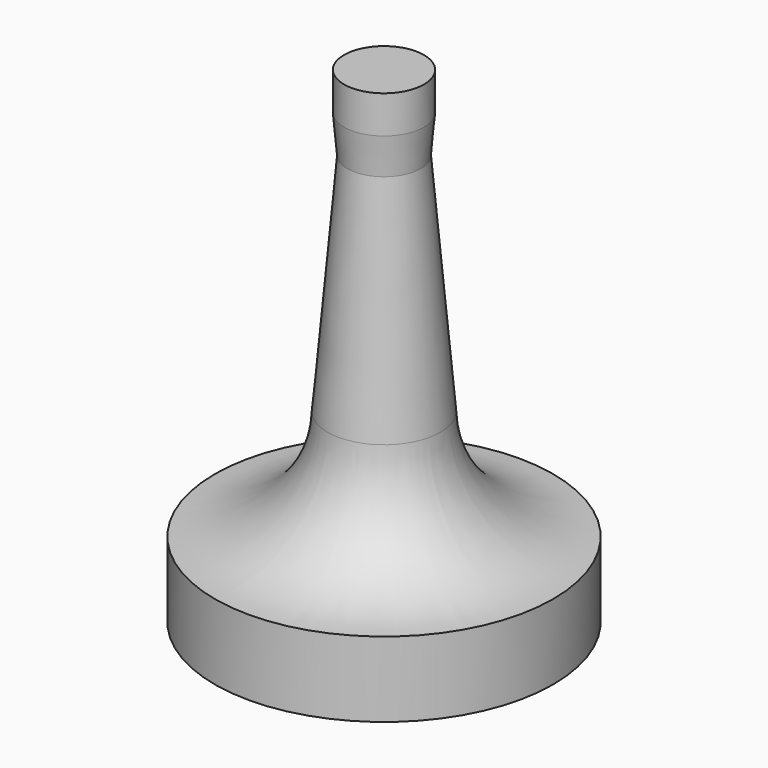
from build123d import *

# Parameters (mm, degrees)
F1_FACE_R = 19.05
F2_DEPTH  = 76.2
F2_TAPER  = 5
F2_FACE_R = 12.3833638393
F3_DEPTH  = 12.7
F3_TAPER  = -5
F4_DEPTH  = 12.7


with BuildPart() as f1:
    # F0 (on Front) → F1 (revolve)
    with BuildSketch(Plane.XZ):
        with BuildLine():
            Line((-57.1391619384, 0), (0, 0))
            Line((0, 0), (0, 62.5912960728))
            Line((0, 62.5912960728), (-19.05, 62.5912960728))
            ThreePointArc((-19.05, 62.5912960728), (-30.5216077648, 36.2398494169), (-57.1391619384, 25.4))
            Line((-57.1391619384, 25.4), (-57.1391619384, 0))
        make_face()
    revolve(axis=Axis((0, 0, 31.2956480364), (0, 0, -1)))

    # F1_face (on face) → F2 (join)
    with BuildSketch(Plane.XY.offset(62.5912960728)):
        Circle(F1_FACE_R)
    extrude(amount=F2_DEPTH, taper=F2_TAPER)

    # F2_face (on face) → F3 (join)
    with BuildSketch(Plane.XY.offset(138.7912960728)):
        Circle(F2_FACE_R)
    extrude(amount=F3_DEPTH, taper=F3_TAPER)

    # F4 (add): a face of the model
    f4_faces = [f1.faces().sort_by_distance(p)[0] for p in [
        (0, 0, 151.4912960728),
    ]]
    extrude(f4_faces, amount=F4_DEPTH)


solid = f1.part
